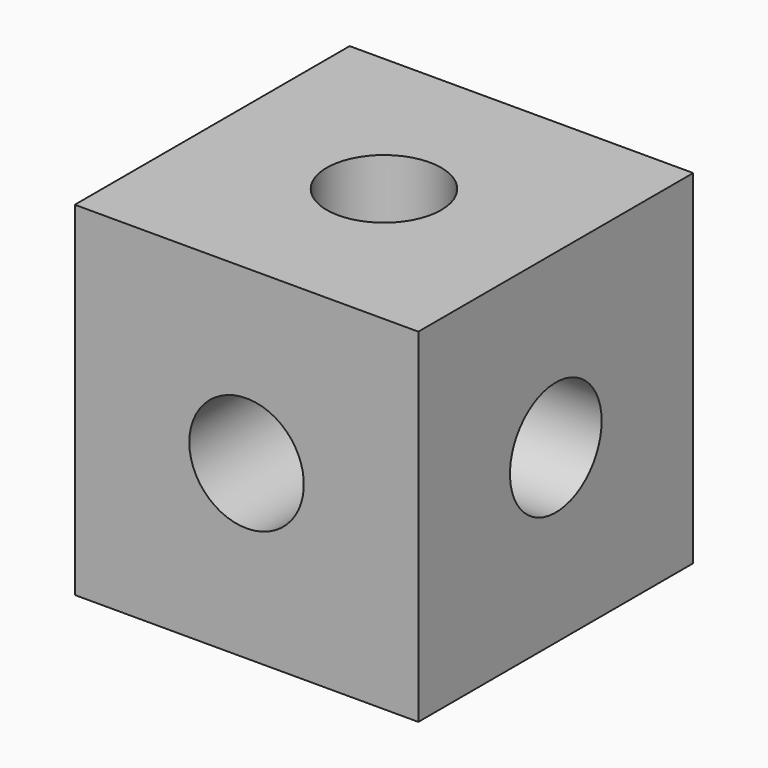
from build123d import *

# Parameters (mm, degrees)
F0_W     = 152.4
F0_H     = 152.4
F1_DEPTH = 152.4
F2_R     = 25.4
F3_DEPTH = 152.401
F4_R     = 25.4
F5_DEPTH = 152.401
F6_R     = 25.4
F7_DEPTH = 152.401


with BuildPart() as f1:
    # F0 (on Top) → F1 (new body)
    with BuildSketch(Plane.XY):
        Rectangle(F0_W, F0_H)
    extrude(amount=F1_DEPTH)

    # F2 (on face) → F3 (cut, through all)
    with BuildSketch(Plane.YZ.offset(76.2)):
        with Locations((0, 76.2)):
            Circle(F2_R)
    extrude(amount=-F3_DEPTH, mode=Mode.SUBTRACT)

    # F4 (on face) → F5 (cut, through all)
    with BuildSketch(Plane(origin=(0, 76.2, 0), x_dir=(-1, 0, 0), z_dir=(0, 1, 0))):
        with Locations((0, 76.2)):
            Circle(F4_R)
    extrude(amount=-F5_DEPTH, mode=Mode.SUBTRACT)

    # F6 (on face) → F7 (cut, through all)
    with BuildSketch(Plane.XY.offset(152.4)):
        Circle(F6_R)
    extrude(amount=-F7_DEPTH, mode=Mode.SUBTRACT)


solid = f1.part
